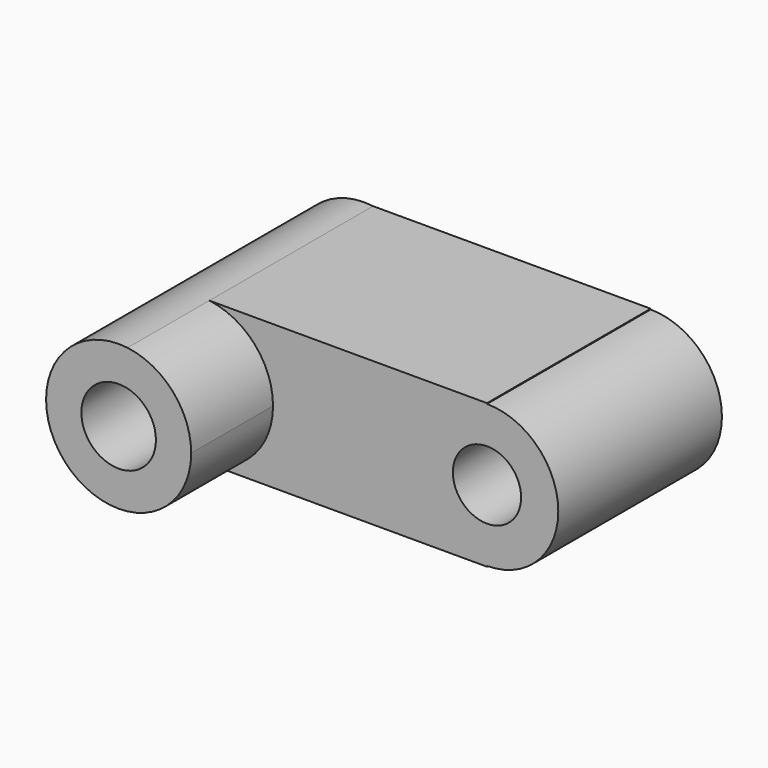
from build123d import *

# Parameters (mm, degrees)
F0_R     = 9.258211
F1_DEPTH = 76.2
F2_DEPTH = 50.8


with BuildPart() as f1:
    # F0 (on Front) → F1 (new body)
    with BuildSketch(Plane.XZ):
        with BuildLine():
            ThreePointArc((-33.368214, -17.88242), (-22.07979, -11.933415), (-17.56174, 0))
            ThreePointArc((-17.56174, 0), (-22.07979, 11.933415), (-33.368214, 17.88242))
            ThreePointArc((-33.368214, 17.88242), (-53.599224, 0), (-33.368214, -17.88242))
        make_face()
        with Locations((-35.580482, 0)):
            Circle(F0_R, mode=Mode.SUBTRACT)
    extrude(amount=F1_DEPTH)

    # F0 (on Front) → F2 (join)
    with BuildSketch(Plane.XZ):
        with BuildLine():
            ThreePointArc((-33.368214, 17.88242), (-22.07979, 11.933415), (-17.56174, 0))
            ThreePointArc((-17.56174, 0), (-22.07979, -11.933415), (-33.368214, -17.88242))
            Line((-33.368214, -17.88242), (35.580482, -17.88242))
            Line((35.580482, -17.88242), (35.580482, -17.699023))
            ThreePointArc((35.580482, -17.699023), (53.279505, 0), (35.580482, 17.699023))
            Line((35.580482, 17.699023), (35.580482, 17.88242))
            Line((35.580482, 17.88242), (-33.368214, 17.88242))
        make_face()
        with BuildLine():
            ThreePointArc((44.054791, 0), (35.580482, -8.474309), (27.106173, 0))
            ThreePointArc((27.106173, 0), (35.580482, 8.474309), (44.054791, 0))
        make_face(mode=Mode.SUBTRACT)
    extrude(amount=F2_DEPTH)


solid = f1.part
